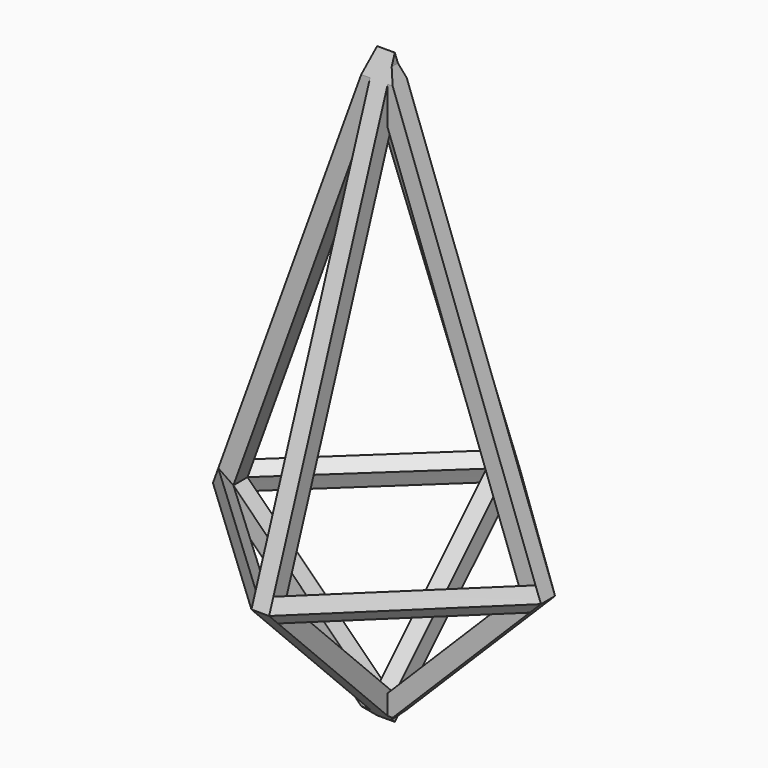
from build123d import *

# Parameters (mm, degrees)
F1_DEPTH = 4.5
F5_DEPTH = 2.25
F7_DEPTH = 12.5


with BuildPart() as f1:
    # F0 (on Right) → F1 (new body)
    with BuildSketch(Plane.YZ):
        Polygon((-40, 40), (0, 0), (40, 40), (0, 150), align=None)
        Polygon((-34.7915337519, 41.1554947826), (0, 136.8322126004), (34.7915337519, 41.1554947826), (0, 6.3639610307), align=None, mode=Mode.SUBTRACT)
    extrude(amount=F1_DEPTH)

    # F4 (on Front) → F5 (join, symmetric)
    with BuildSketch(Plane.XZ):
        Polygon((-40, 40), (0, 0), (0, 6.3639610307), (-34.7915337519, 41.1554947826), (0, 136.8322126004), (0, 150), align=None)
        Polygon((38.2915337519, 41.1554947826), (3.5, 6.3639610307), (3.5, 0), (43.5, 40), (3.5, 150), (3.5, 136.8322126004), align=None)
    extrude(amount=F5_DEPTH, both=True)

    # F6 (on offset) → F7 (cut, symmetric)
    with BuildSketch(Plane.YZ.offset(1.75)):
        Polygon((-46.8705444882, 150), (-40, 40), (0, 150), align=None)
        Polygon((46.8705444882, 150), (0, 150), (40, 40), align=None)
        Polygon((0, 0), (-40, 40), (-40, 0), align=None)
        Polygon((40, 40), (0, 0), (40, 0), align=None)
    extrude(amount=F7_DEPTH, both=True, mode=Mode.SUBTRACT)

    # F8 (on face) → F10 section 0
    with BuildSketch(Plane.YZ.offset(4.5)):
        Polygon((-38.6330277477, 43.759173694), (-40, 40), (-37.1715728753, 37.1715728753), (-34.7915337519, 41.1554947826), align=None)
    # F9 (on face) → F10 section 1
    with BuildSketch(Plane.XZ.offset(2.25)):
        Polygon((40.6715728753, 37.1715728753), (43.5, 40), (42.1330277477, 43.759173694), (38.2915337519, 41.1554947826), align=None)
    loft()

    # F11 (on face) → F13 section 0
    with BuildSketch(Plane(origin=(0, 2.25, 0), x_dir=(-1, 0, 0), z_dir=(0, 1, 0))):
        Polygon((-42.1330277477, 43.759173694), (-43.5, 40), (-40.6715728753, 37.1715728753), (-38.2915337519, 41.1554947826), align=None)
    # F12 (on face) → F13 section 1
    with BuildSketch(Plane.YZ.offset(4.5)):
        Polygon((37.1715728753, 37.1715728753), (40, 40), (38.6330277477, 43.759173694), (34.7915337519, 41.1554947826), align=None)
    loft()

    # F15 (on face) → F16 section 0
    with BuildSketch(Plane(origin=(0, 2.25, 0), x_dir=(-1, 0, 0), z_dir=(0, 1, 0))):
        Polygon((37.1715728753, 37.1715728753), (40, 40), (38.6330277477, 43.759173694), (34.7915337519, 41.1554947826), align=None)
    # F14 (on face) → F16 section 1
    with BuildSketch(Plane(origin=(0, 0, 0), x_dir=(0, -1, 0), z_dir=(-1, 0, 0))):
        Polygon((-38.6330277477, 43.759173694), (-40, 40), (-37.1715728753, 37.1715728753), (-34.7915337519, 41.1554947826), align=None)
    loft()

    # F17 (on face) → F19 section 0
    with BuildSketch(Plane.XZ.offset(2.25)):
        Polygon((-38.6330277477, 43.759173694), (-40, 40), (-37.1715728753, 37.1715728753), (-34.7915337519, 41.1554947826), align=None)
    # F18 (on face) → F19 section 1
    with BuildSketch(Plane(origin=(0, 0, 0), x_dir=(0, -1, 0), z_dir=(-1, 0, 0))):
        Polygon((37.1715728753, 37.1715728753), (40, 40), (38.6330277477, 43.759173694), (34.7915337519, 41.1554947826), align=None)
    loft()


solid = f1.part
